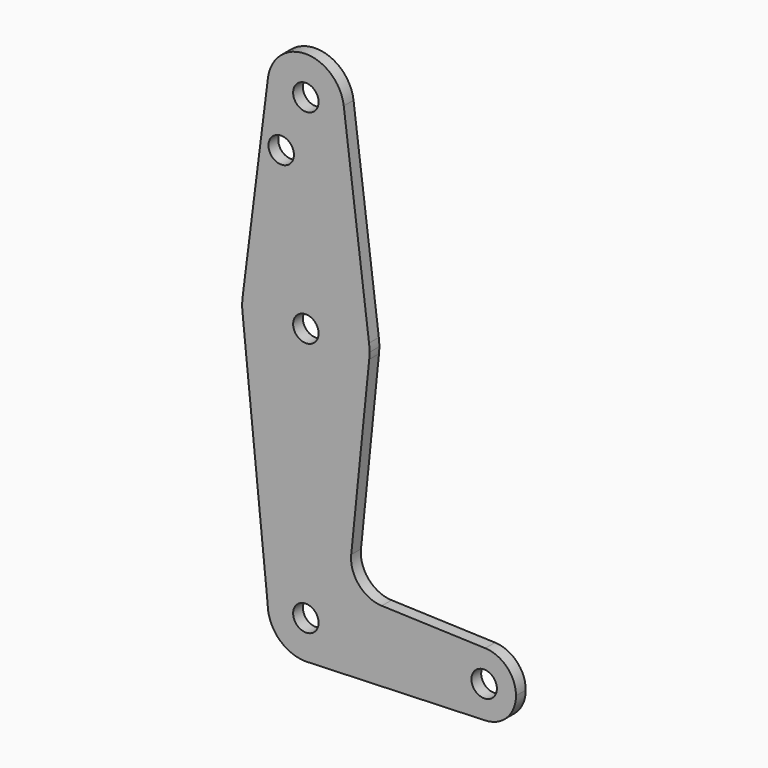
from build123d import *

# Parameters (mm, degrees)
F0_R     = 3.175
F1_DEPTH = 3.048


with BuildPart() as f1:
    # F0 (on Front) → F1 (new body)
    with BuildSketch(Plane.XZ):
        with BuildLine():
            ThreePointArc((0, -9.525), (0.3388863295, -9.5189695375), (0.6773435479, -9.500885786))
            Line((0.6773435479, -9.500885786), (0, -9.525))
        make_face()
        with BuildLine():
            ThreePointArc((44.7324052746, -7.9324746146), (50.1616327839, -5.5119104847), (52.3875, 0))
            ThreePointArc((52.3875, 0), (50.1616327839, 5.5119104847), (44.7324052746, 7.9324746146))
            ThreePointArc((44.7324052746, 7.9324746146), (36.5125, 0), (44.7324052746, -7.9324746146))
        make_face()
        with Locations((44.45, 0)):
            Circle(F0_R, mode=Mode.SUBTRACT)
        with BuildLine():
            ThreePointArc((44.7324052746, -7.9324746146), (36.5125, 0), (44.7324052746, 7.9324746146))
            Line((44.7324052746, 7.9324746146), (18.9341027877, 8.850924033))
            ThreePointArc((18.9341027877, 8.850924033), (13.2249738114, 11.5709798305), (11.3072231466, 17.5971800924))
            Line((11.3072231466, 17.5971800924), (15.7942028036, 61.9003804205))
            ThreePointArc((15.7942028036, 61.9003804205), (0.1936154008, 47.6261807344), (-15.7504882737, 61.515625))
            Line((-15.7504882737, 61.515625), (-9.525, 0))
            ThreePointArc((-9.525, 0), (0, 9.525), (9.525, 0))
            ThreePointArc((9.525, 0), (6.9705567315, -6.4912990883), (0.6773435479, -9.500885786))
            Line((0.6773435479, -9.500885786), (44.7324052746, -7.9324746146))
        make_face()
        with BuildLine():
            Line((0, -9.525), (0.6773435479, -9.500885786))
            ThreePointArc((0.6773435479, -9.500885786), (6.9705567315, -6.4912990883), (9.525, 0))
            ThreePointArc((9.525, 0), (0, 9.525), (-9.525, 0))
            ThreePointArc((-9.525, 0), (-6.7351920908, -6.7351920908), (0, -9.525))
        make_face()
        Circle(F0_R, mode=Mode.SUBTRACT)
        with BuildLine():
            ThreePointArc((-15.7504882737, 61.515625), (0.1936154008, 47.6261807344), (15.7942028036, 61.9003804205))
            ThreePointArc((15.7942028036, 61.9003804205), (15.8547878338, 62.6991705884), (15.875, 63.5))
            ThreePointArc((15.875, 63.5), (15.8438414904, 64.4941387366), (15.7504882737, 65.484375))
            ThreePointArc((15.7504882737, 65.484375), (0, 79.375), (-15.7504882737, 65.484375))
            ThreePointArc((-15.7504882737, 65.484375), (-15.875, 63.5), (-15.7504882737, 61.515625))
        make_face()
        with Locations((0, 63.5)):
            Circle(F0_R, mode=Mode.SUBTRACT)
        with BuildLine():
            Line((-9.4502929642, 115.490625), (-15.7504882737, 65.484375))
            ThreePointArc((-15.7504882737, 65.484375), (0, 79.375), (15.7504882737, 65.484375))
            Line((15.7504882737, 65.484375), (9.4502929642, 115.490625))
            ThreePointArc((9.4502929642, 115.490625), (9.5063048942, 114.896483242), (9.525, 114.3))
            ThreePointArc((9.525, 114.3), (-0.596483242, 104.7936951058), (-9.4502929642, 115.490625))
        make_face()
        with Locations((-6.1478563584, 100.7127538323)):
            Circle(F0_R, mode=Mode.SUBTRACT)
        with BuildLine():
            ThreePointArc((9.4502929642, 115.490625), (0, 123.825), (-9.4502929642, 115.490625))
            ThreePointArc((-9.4502929642, 115.490625), (-0.596483242, 104.7936951058), (9.525, 114.3))
            ThreePointArc((9.525, 114.3), (9.5063048942, 114.896483242), (9.4502929642, 115.490625))
        make_face()
        with Locations((0, 114.3)):
            Circle(F0_R, mode=Mode.SUBTRACT)
    extrude(amount=F1_DEPTH)


solid = f1.part
